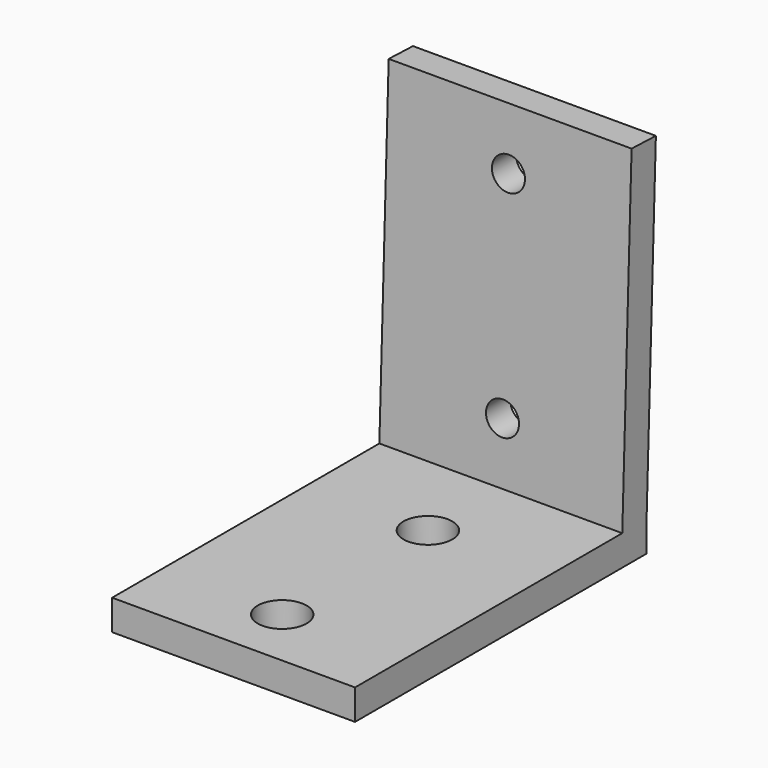
from build123d import *

# Parameters (mm, degrees)
F1_DEPTH = 25.4
F3_D     = 5.1054
F5_D     = 3.4544


with BuildPart() as f1:
    # F0 (on Right) → F1 (new body)
    with BuildSketch(Plane.YZ):
        Polygon((-38.1, 0), (0, 0), (0, 3.064194098), (1.2188649223, 37.9679187316), (-1.9542009535, 38.0787246336), (-3.1730658758, 3.175), (-38.1, 3.175), align=None)
    extrude(amount=F1_DEPTH)

    # F3 (through all)
    with Locations(Plane.XY.offset(3.175)):
        with Locations((12.7, -31.75), (12.7, -12.6980658758)):
            Hole(F3_D / 2)

    # F5 (through all)
    with Locations(Plane(origin=(0, -3.2799395634, 0.1145380134), x_dir=(1, 0, 0), z_dir=(0, -0.999390827, 0.0348994967))):
        with Locations((12.7, 9.4123274737), (12.7, 31.6373274737)):
            Hole(F5_D / 2)


solid = f1.part
